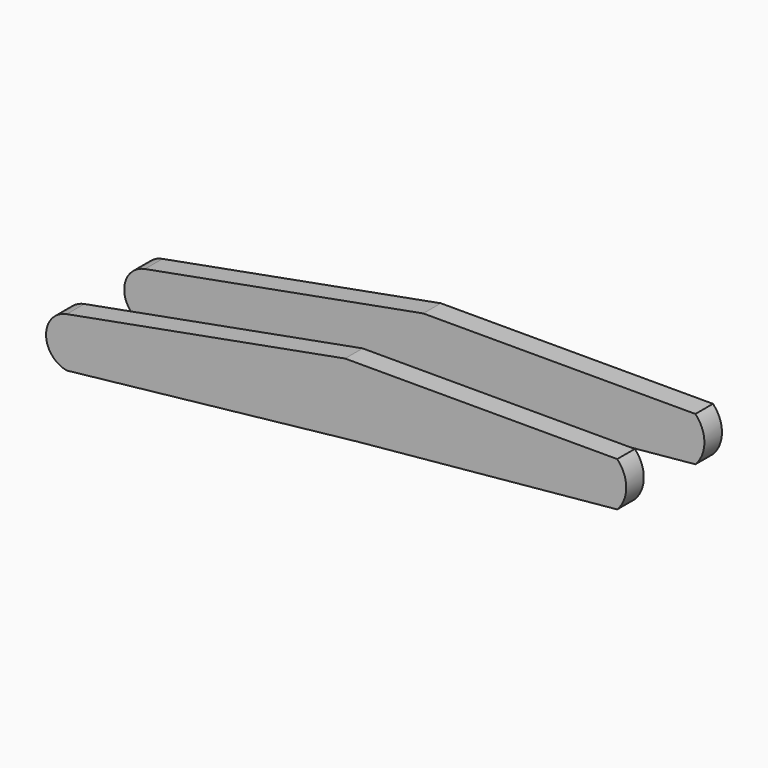
from build123d import *

# Parameters (mm, degrees)
F1_DEPTH = 1.143


with BuildPart() as f1:
    # F0 (on Front) → F1 (new body, symmetric)
    with BuildSketch(Plane.XZ):
        with BuildLine():
            Line((-28.298467, -10.600403), (-57.242181, -15.946694))
            ThreePointArc((-57.242181, -15.946694), (-59.39007, -18.527661), (-57.242181, -21.108629))
            Line((-57.242181, -21.108629), (-27.007982, -17.790241))
            Line((-27.007982, -17.790241), (0, -15.209274))
            ThreePointArc((0, -15.209274), (0.934549, -12.904839), (0, -10.600403))
            Line((0, -10.600403), (-28.298467, -10.600403))
        make_face()
    extrude(amount=F1_DEPTH, both=True)


with BuildPart() as f2_1:
    # F2: copy of F1
    add(f1.part.moved(Location((0, 10.16, 0))))


solid = Compound([f1.part, f2_1.part])
